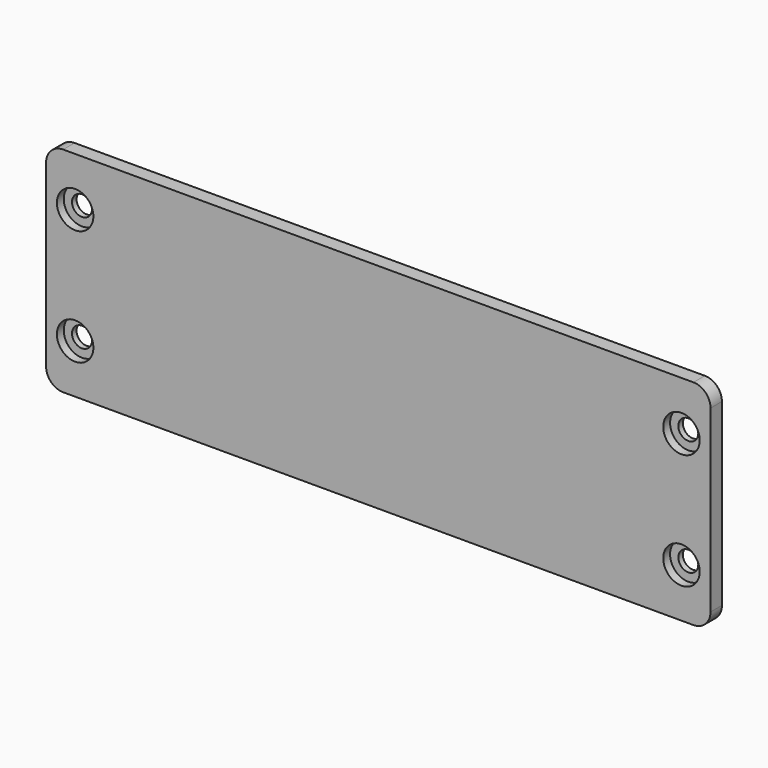
from build123d import *

# Parameters (mm, degrees)
F0_R     = 1.75
F1_DEPTH = 2.5
F2_R     = 3.2
F3_DEPTH = 1.5
F4_W     = 2.5
F4_H     = 6
F5_DEPTH = 1.25


with BuildPart() as f1:
    # F0 (on Front) → F1 (new body)
    with BuildSketch(Plane.XZ):
        with BuildLine():
            Line((55.3, 18.75), (-55.3, 18.75))
            ThreePointArc((-55.3, 18.75), (-57.42132, 17.87132), (-58.3, 15.75))
            Line((-58.3, 15.75), (-58.3, -15.75))
            ThreePointArc((-58.3, -15.75), (-57.42132, -17.87132), (-55.3, -18.75))
            Line((-55.3, -18.75), (55.3, -18.75))
            ThreePointArc((55.3, -18.75), (57.42132, -17.87132), (58.3, -15.75))
            Line((58.3, -15.75), (58.3, 15.75))
            ThreePointArc((58.3, 15.75), (57.42132, 17.87132), (55.3, 18.75))
        make_face()
        with Locations((-53.2, -10.15)):
            Circle(F0_R, mode=Mode.SUBTRACT)
        with Locations((53.2, -10.15)):
            Circle(F0_R, mode=Mode.SUBTRACT)
        with Locations((-53.2, 10.15)):
            Circle(F0_R, mode=Mode.SUBTRACT)
        with Locations((53.2, 10.15)):
            Circle(F0_R, mode=Mode.SUBTRACT)
    extrude(amount=F1_DEPTH)

    # F2 (on face) → F3 (cut)
    with BuildSketch(Plane.XZ.offset(2.5)):
        with Locations((-53.2, 10.15)):
            Circle(F2_R)
        with Locations((53.2, 10.15)):
            Circle(F2_R)
        with Locations((-53.2, -10.15)):
            Circle(F2_R)
        with Locations((53.2, -10.15)):
            Circle(F2_R)
    extrude(amount=-F3_DEPTH, mode=Mode.SUBTRACT)

    # F4 (on face) → F5 (cut)
    with BuildSketch(Plane(origin=(0, 0, 0), x_dir=(-1, 0, 0), z_dir=(0, 1, 0))):
        with Locations((57.05, 0)):
            Rectangle(F4_W, F4_H)
    extrude(amount=-F5_DEPTH, mode=Mode.SUBTRACT)


solid = f1.part
